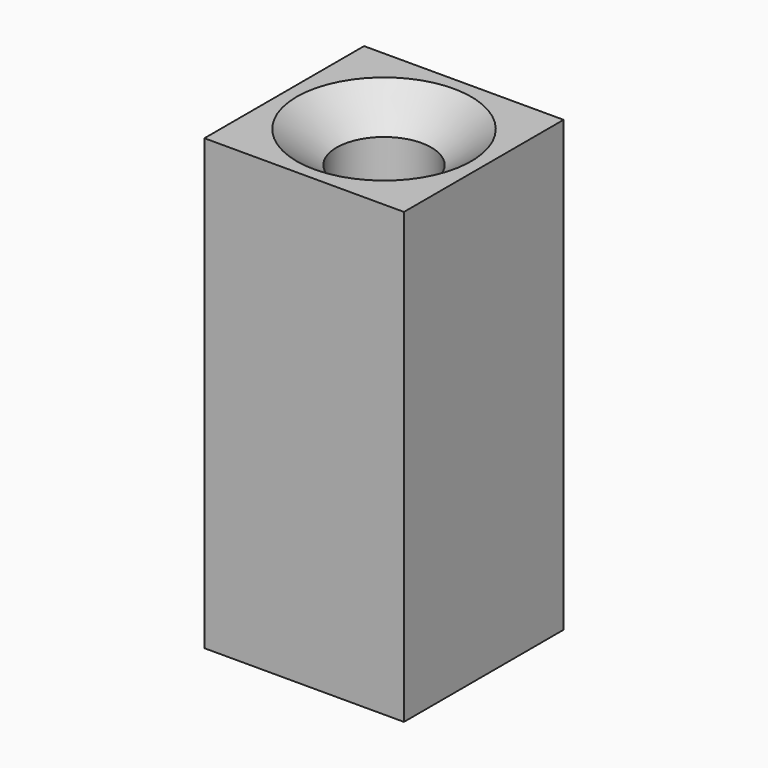
from build123d import *

# Parameters (mm, degrees)
F0_W           = 8
F0_H           = 8
F2_DEPTH       = 18
F3_D           = 3.8
F3_DEPTH       = 16
F3_CSINK_D     = 7
F3_CSINK_ANGLE = 103.1324031235
F3_TIP         = 1.1416351762


with BuildPart() as f2:
    # F0 (on Top) → F2 (new body)
    with BuildSketch(Plane.XY):
        with Locations((-38.9482649043, 25.0921558993)):
            Rectangle(F0_W, F0_H)
    extrude(amount=-F2_DEPTH)

    # F3
    with Locations(Plane.XY):
        with Locations((-38.9482825994, 25.0922832638)):
            CounterSinkHole(F3_D / 2, F3_CSINK_D / 2, depth=F3_DEPTH, counter_sink_angle=F3_CSINK_ANGLE)
            with Locations((0, 0, -(F3_DEPTH + F3_TIP / 2))):  # 118° drill point
                Cone(0, F3_D / 2, F3_TIP, mode=Mode.SUBTRACT)


solid = f2.part
